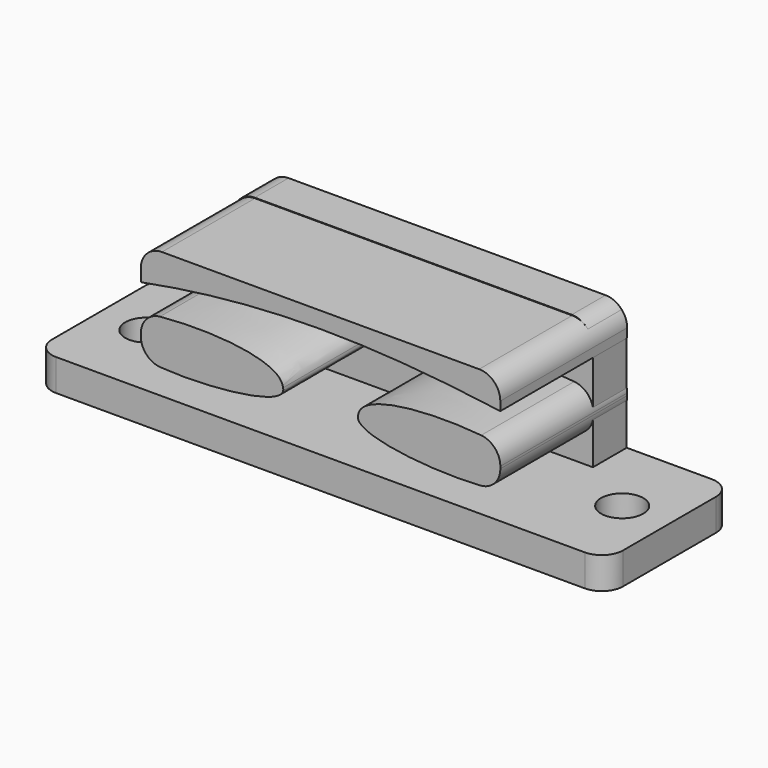
from build123d import *

# Parameters (mm, degrees)
F0_W     = 54
F0_H     = 15
F0_R     = 2
F1_DEPTH = 3
F3_DEPTH = 15
F4_W     = 33.9856799692
F4_H     = 12.0507893413
F5_DEPTH = 4
F6_R     = 2
F6_2_R   = 2
F6_3_R   = 2
F6_4_R   = 2
F6_5_R   = 2


with BuildPart() as f1:
    # F0 (on Top) → F1 (new body)
    with BuildSketch(Plane.XY):
        Rectangle(F0_W, F0_H)
        with Locations((-22.5, 0.0331350166)):
            Circle(F0_R, mode=Mode.SUBTRACT)
        with Locations((22.5, 0.0331350166)):
            Circle(F0_R, mode=Mode.SUBTRACT)
    extrude(amount=F1_DEPTH)

    # F6
    f6_edges = [f1.edges().sort_by_distance(p)[0] for p in [
        (-27, 7.5, 1.5),
        (-27, -7.5, 1.5),
        (27, -7.5, 1.5),
        (27, 7.5, 1.5),
    ]]
    fillet(f6_edges, radius=F6_R)


with BuildPart() as f3:
    # F2 (on face) → F3 (new body)
    with BuildSketch(Plane(origin=(0, 7.5, 0), x_dir=(-1, 0, 0), z_dir=(0, 1, 0))):
        with BuildLine():
            add(Edge.make_bspline(
                [(-17, 9.3197282404), (-12.7430707216, 10.0780278444), (-3.7856509443, 9.9358474836), (-3.5486822017, 7.4239778332)],
                knots=[0, 0, 0, 0, 13.5842489714, 13.5842489714, 13.5842489714, 13.5842489714], degree=3))
            Line((-17, 9.3197282404), (-17, 5.5756215006))
            add(Edge.make_bspline(
                [(-17, 5.5756215006), (-12.7904647961, 4.8173209652), (-2.9799570329, 5.5756215006), (-3.5486822017, 7.4239778332)],
                knots=[0, 0, 0, 0, 13.5777159951, 13.5777159951, 13.5777159951, 13.5777159951], degree=3))
        make_face()
    extrude(amount=-F3_DEPTH)

    # F6#5
    f6_5_edges = [f3.edges().sort_by_distance(p)[0] for p in [
        (17, 0, 9.319728),
        (17, 0, 5.575622),
    ]]
    fillet(f6_5_edges, radius=F6_5_R)


with BuildPart() as f3b:
    # F2 (on face) → F3, piece 2 (new body)
    with BuildSketch(Plane(origin=(0, 7.5, 0), x_dir=(-1, 0, 0), z_dir=(0, 1, 0))):
        with BuildLine():
            Line((17, 5.5756215006), (17, 9.3197282404))
            add(Edge.make_bspline(
                [(17, 9.3197282404), (12.7430707216, 10.0780278444), (3.7856509443, 9.9358474836), (3.5486822017, 7.4239778332)],
                knots=[0, 0, 0, 0, 13.5842489714, 13.5842489714, 13.5842489714, 13.5842489714], degree=3))
            add(Edge.make_bspline(
                [(17, 5.5756215006), (12.7904647961, 4.8173209652), (2.9799570329, 5.5756215006), (3.5486822017, 7.4239778332)],
                knots=[0, 0, 0, 0, 13.5777159951, 13.5777159951, 13.5777159951, 13.5777159951], degree=3))
        make_face()
    extrude(amount=-F3_DEPTH)

    # F6#4
    f6_4_edges = [f3b.edges().sort_by_distance(p)[0] for p in [
        (-17, 0, 9.319728),
        (-17, 0, 5.575622),
    ]]
    fillet(f6_4_edges, radius=F6_4_R)


with BuildPart() as f3c:
    # F2 (on face) → F3, piece 3 (new body)
    with BuildSketch(Plane(origin=(0, 7.5, 0), x_dir=(-1, 0, 0), z_dir=(0, 1, 0))):
        with BuildLine():
            Line((17, 15), (0, 15))
            Line((0, 15), (0, 13.4638967375))
            add(Edge.make_bspline(
                [(0, 13.4638967375), (5.4909777236, 13.4622868202), (11.050086041, 12.9817824828), (17, 11.8397288024)],
                knots=[17.2021267795, 17.2021267795, 17.2021267795, 17.2021267795, 34.001494822, 34.001494822, 34.001494822, 34.001494822], degree=3))
            Line((17, 11.8397288024), (17, 15))
        make_face()
        with BuildLine():
            Line((0, 15), (-17, 15))
            Line((-17, 15), (-17, 12.1585549787))
            add(Edge.make_bspline(
                [(-17, 12.1585549787), (-11.173807267, 12.9650614468), (-5.6226219168, 13.4655452519), (0, 13.4638967375)],
                knots=[0, 0, 0, 0, 17.2021267795, 17.2021267795, 17.2021267795, 17.2021267795], degree=3))
            Line((0, 13.4638967375), (0, 15))
        make_face()
    extrude(amount=-F3_DEPTH)

    # F6#2
    f6_2_edges = [f3c.edges().sort_by_distance(p)[0] for p in [
        (-17, 0, 15),
        (17, 0, 15),
    ]]
    fillet(f6_2_edges, radius=F6_2_R)


with BuildPart() as f5:
    # F4 (on face) → F5 (new body)
    with BuildSketch(Plane(origin=(0, 7.5, 0), x_dir=(-1, 0, 0), z_dir=(0, 1, 0))):
        with Locations((0.037192367, 9.0253946707)):
            Rectangle(F4_W, F4_H)
    extrude(amount=-F5_DEPTH)

    # F6#3
    f6_3_edges = [f5.edges().sort_by_distance(p)[0] for p in [
        (-17.030032, 5.5, 15.050789),
        (16.955648, 5.5, 15.050789),
    ]]
    fillet(f6_3_edges, radius=F6_3_R)


solid = Compound([f1.part, f3.part, f3b.part, f3c.part, f5.part])
